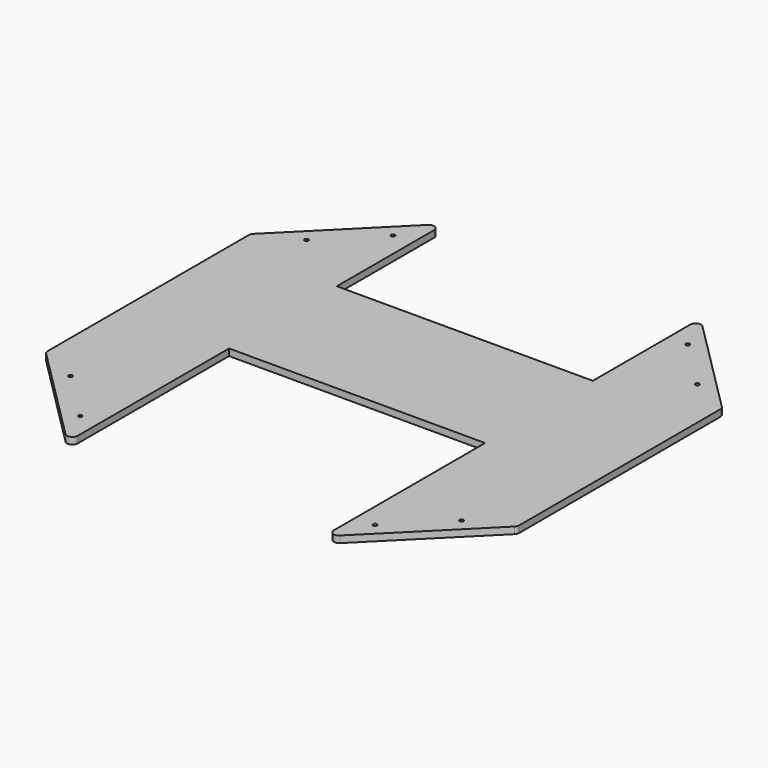
from build123d import *

# Parameters (mm, degrees)
F0_W     = 241.3
F0_H     = 127
F0_R     = 1.85
F1_DEPTH = 6.35
F2_R     = 5.08


with BuildPart() as f1:
    # F0 (on Top) → F1 (new body)
    with BuildSketch(Plane.XY):
        with Locations((0, 31.75)):
            Rectangle(F0_W, F0_H)
        Polygon((-120.65, 95.25), (-120.65, 222.25), (-171.45, 171.45), (-222.25, 120.65), (-222.25, -120.65), (-120.65, -222.25), (-120.65, -31.75), align=None)
        with Locations((-138.944301, -184.199135)):
            Circle(F0_R, mode=Mode.SUBTRACT)
        with Locations((-184.199135, -138.944301)):
            Circle(F0_R, mode=Mode.SUBTRACT)
        with BuildLine():
            ThreePointArc((-182.349135, 138.944301), (-185.908312, 138.236337), (-182.890988, 140.252449))
            ThreePointArc((-182.890988, 140.252449), (-182.489958, 139.652266), (-182.349135, 138.944301))
        make_face(mode=Mode.SUBTRACT)
        with BuildLine():
            ThreePointArc((-137.094301, 184.199135), (-138.236337, 182.489958), (-140.252449, 182.890988))
            ThreePointArc((-140.252449, 182.890988), (-139.652266, 185.908312), (-137.094301, 184.199135))
        make_face(mode=Mode.SUBTRACT)
        Polygon((120.65, 222.25), (120.65, 95.25), (120.65, -31.75), (120.65, -222.25), (222.25, -120.65), (222.25, 120.65), align=None)
        with Locations((138.944301, -184.199135)):
            Circle(F0_R, mode=Mode.SUBTRACT)
        with Locations((184.199135, -138.944301)):
            Circle(F0_R, mode=Mode.SUBTRACT)
        with Locations((184.199135, 138.944301)):
            Circle(F0_R, mode=Mode.SUBTRACT)
        with Locations((138.944301, 184.199135)):
            Circle(F0_R, mode=Mode.SUBTRACT)
    extrude(amount=F1_DEPTH)

    # F2
    f2_edges = [f1.edges().sort_by_distance(p)[0] for p in [
        (-120.65, -222.25, 3.175),
        (120.65, -222.25, 3.175),
        (120.65, 222.25, 3.175),
        (-120.65, 222.25, 3.175),
        (222.25, 120.65, 3.175),
        (222.25, -120.65, 3.175),
        (-222.25, 120.65, 3.175),
        (-222.25, -120.65, 3.175),
    ]]
    fillet(f2_edges, radius=F2_R)


solid = f1.part
